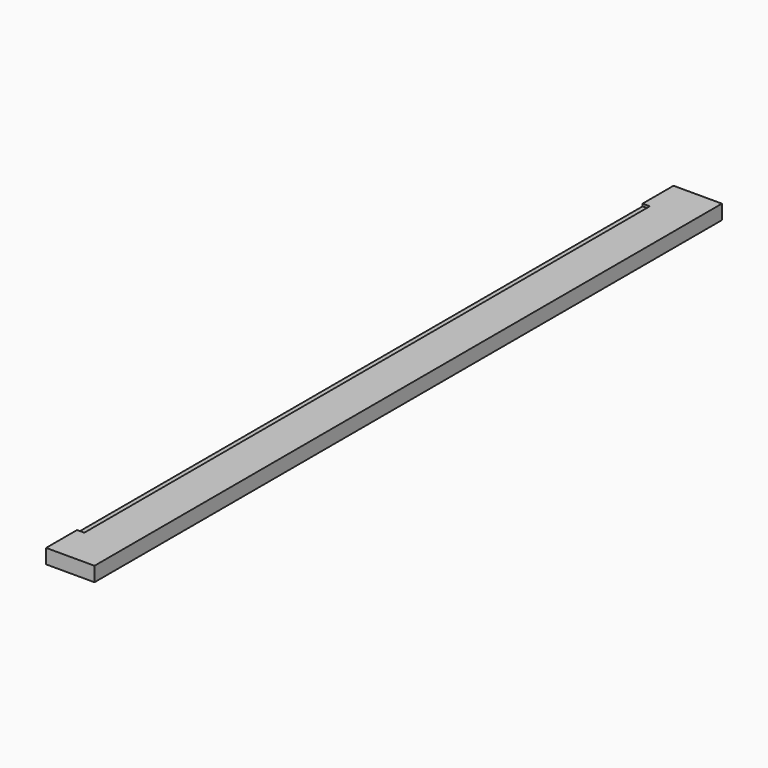
from build123d import *

# Parameters (mm, degrees)
F0_W          = 63.5
F0_H          = 1028.7
F1_DEPTH      = 19.05
F2_W          = 9.525
F2_H          = 3.175
F3_DEPTH      = 463.55
F3_DEPTH_BACK = 463.55


with BuildPart() as f1:
    # F0 (on Top) → F1 (new body)
    with BuildSketch(Plane.XY):
        with Locations((-31.75, 0)):
            Rectangle(F0_W, F0_H)
    extrude(amount=F1_DEPTH)

    # F2 (on Front) → F3 (cut, two sides)
    with BuildSketch(Plane.XZ) as f3_sk:
        with Locations((-58.7375, 17.4625)):
            Rectangle(F2_W, F2_H)
    extrude(amount=F3_DEPTH, mode=Mode.SUBTRACT)
    extrude(f3_sk.sketch, amount=-F3_DEPTH_BACK, mode=Mode.SUBTRACT)


solid = f1.part
